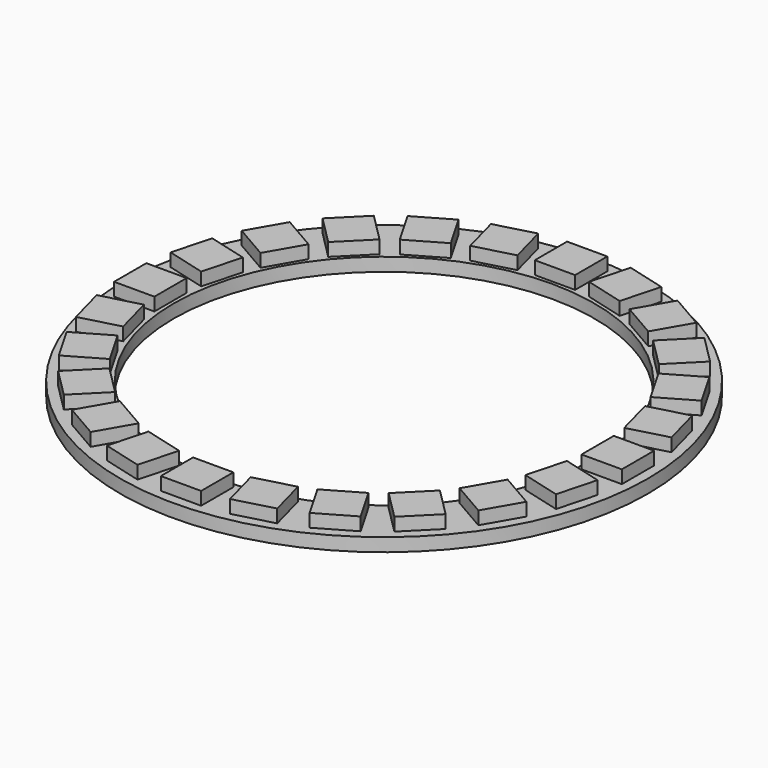
from build123d import *

# Parameters (mm, degrees)
F0_R     = 32.75
F0_R_2   = 26.1
F1_DEPTH = 1.65
F2_W     = 5
F2_H     = 5
F3_DEPTH = 1.62
F4_COUNT = 24


with BuildPart() as f1:
    # F0 (on Top) → F1 (new body)
    with BuildSketch(Plane.XY):
        Circle(F0_R)
        Circle(F0_R_2, mode=Mode.SUBTRACT)
    extrude(amount=F1_DEPTH)

    # F2 (on face) → F3 (join)
    with BuildSketch(Plane.XY.offset(1.65)):
        with Locations((0, -29)):
            Rectangle(F2_W, F2_H)
    extrude(amount=F3_DEPTH)

    # F4: F1 ×24 about axis
    f4_axis = Axis((0, 0, 1.65), (0, 0, 1))


with BuildPart() as f1_1:
    add(f1.part)
    for i in range(1, F4_COUNT):
        add(f1.part.rotate(f4_axis, i * 360 / F4_COUNT))


solid = f1_1.part
